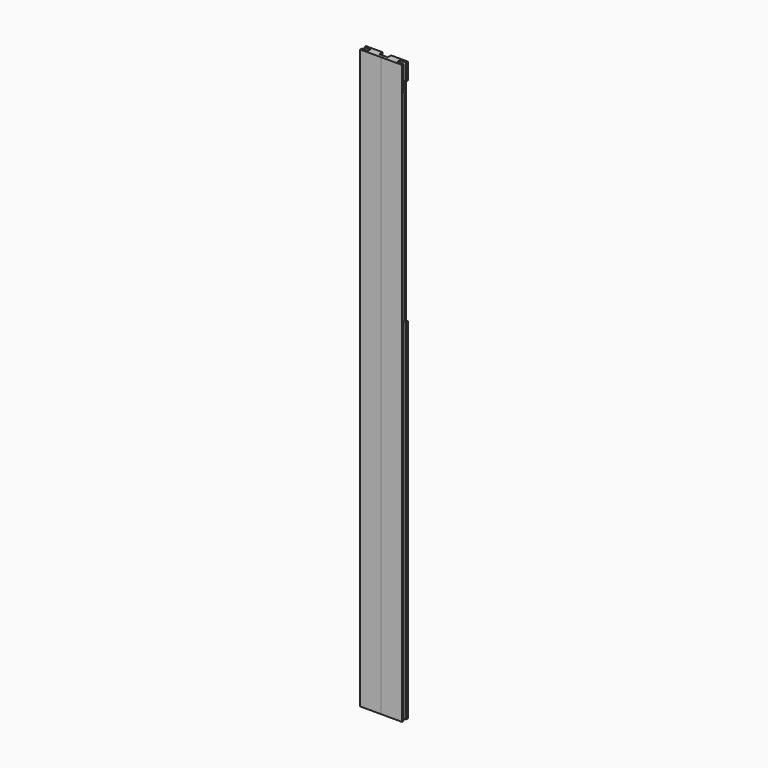
from build123d import *

# Parameters (mm, degrees)
F0_W      = 63.5
F0_H      = 1778
F1_DEPTH  = 22.225
F2_W      = 9.525
F2_H      = 63.5
F2_H_2    = 47.625
F2_H_3    = 60.325
F3_DEPTH  = 38.1
F2_H_4    = 25.4
F2_H_5    = 31.75
F4_DEPTH  = 19.05
F5_W      = 12.7
F5_H      = 12.7
F6_DEPTH  = 1778
F7_W      = 63.5
F7_H      = 12.7
F8_DEPTH  = 22.226
F9_W      = 9.525
F9_H      = 939.8
F10_DEPTH = 9.525
F11_W     = 12.7
F11_H     = 641.35
F12_DEPTH = 6.35


with BuildPart() as f1:
    # F0 (on Front) → F1 (new body)
    with BuildSketch(Plane.XZ):
        with Locations((-31.75, 889)):
            Rectangle(F0_W, F0_H)
    extrude(amount=F1_DEPTH)

    # F2 (on face) → F3 (cut)
    with BuildSketch(Plane(origin=(-63.5, 0, 0), x_dir=(0, -1, 0), z_dir=(-1, 0, 0))):
        with Locations((11.1125, 1720.85)):
            Rectangle(F2_W, F2_H)
        with Locations((11.1125, 55.5625)):
            Rectangle(F2_W, F2_H_2)
        with Locations((11.1125, 1049.3375)):
            Rectangle(F2_W, F2_H_3)
    extrude(amount=-F3_DEPTH, mode=Mode.SUBTRACT)

    # F2 (on face) → F4 (cut)
    with BuildSketch(Plane(origin=(-63.5, 0, 0), x_dir=(0, -1, 0), z_dir=(-1, 0, 0))):
        with Locations((11.1125, 1765.3)):
            Rectangle(F2_W, F2_H_4)
        with Locations((11.1125, 15.875)):
            Rectangle(F2_W, F2_H_5)
    extrude(amount=-F4_DEPTH, mode=Mode.SUBTRACT)

    # F5 (on Top) → F6 (cut, through all)
    with BuildSketch(Plane.XY):
        with Locations((-6.35, -6.35)):
            Rectangle(F5_W, F5_H)
    extrude(amount=F6_DEPTH, mode=Mode.SUBTRACT)

    # F7 (on face) → F8 (cut, through all)
    with BuildSketch(Plane.XZ.offset(22.225)):
        with Locations((-31.75, 1771.65)):
            Rectangle(F7_W, F7_H)
        with Locations((-31.75, 6.35)):
            Rectangle(F7_W, F7_H)
    extrude(amount=-F8_DEPTH, mode=Mode.SUBTRACT)

    # F9 (on face) → F10 (cut)
    with BuildSketch(Plane(origin=(-63.5, 0, 0), x_dir=(0, -1, 0), z_dir=(-1, 0, 0))):
        with Locations((11.1125, 549.275)):
            Rectangle(F9_W, F9_H)
        with Locations((11.1125, 549.275)):
            Rectangle(F9_W, F9_H)
    extrude(amount=-F10_DEPTH, mode=Mode.SUBTRACT)

    # F11 (on face) → F12 (cut)
    with BuildSketch(Plane(origin=(-63.5, 0, 0), x_dir=(0, -1, 0), z_dir=(-1, 0, 0))):
        with Locations((6.35, 1393.825)):
            Rectangle(F11_W, F11_H)
    extrude(amount=-F12_DEPTH, mode=Mode.SUBTRACT)


with BuildPart() as f13_1:
    # F13: instance of F1
    add(f1.part.mirror(Plane.YZ))


solid = Compound([f1.part, f13_1.part])
